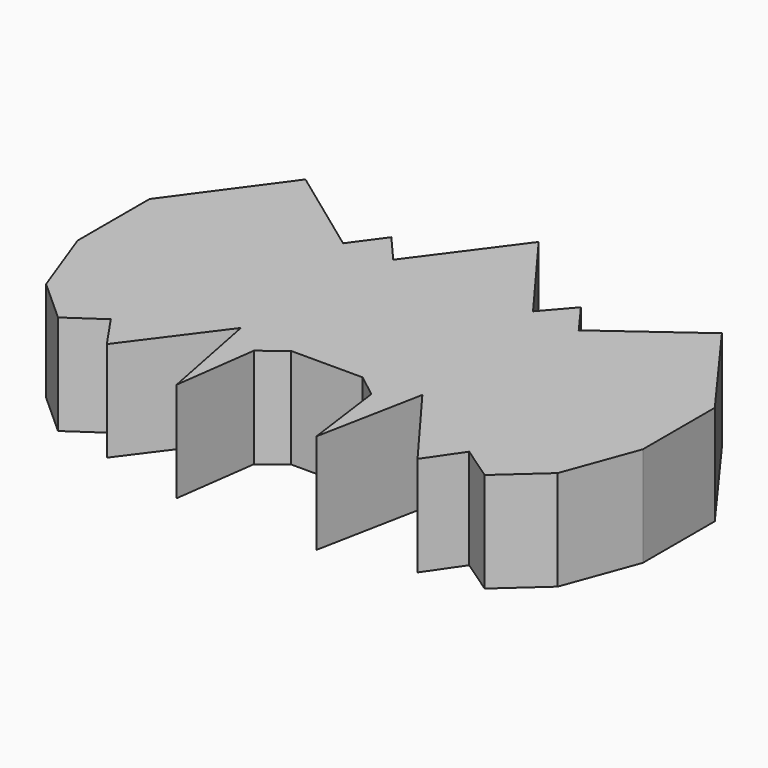
from build123d import *

# Parameters (mm, degrees)
F1_DEPTH = 25.4


with BuildPart() as f1:
    # F0 (on Top) → F1 (new body)
    with BuildSketch(Plane.XY):
        Polygon((-9.068429, -25.410496), (0, -25.410496), (0, 41.847024), (-17.759008, 17.853471), (-24.08079, 25.162514), (-29.93132, 17.147289), (-52.899174, 33.912148), (-71.791738, 8.029339), (-71.791738, -14.830661), (-64.990416, -33.345371), (-54.188063, -43.06126), (-45.531075, -37.123885), (-39.46869, -45.963145), (-23.048926, -23.89909), (-14.925124, -29.94471), align=None)
        Polygon((-17.759008, -50.915454), (-14.925124, -29.94471), (-23.048926, -23.89909), align=None)
    extrude(amount=F1_DEPTH)

    # F2: F1 across plane


with BuildPart() as f1_1:
    add(f1.part)
    add(f1.part.mirror(Plane.YZ))


solid = f1_1.part
